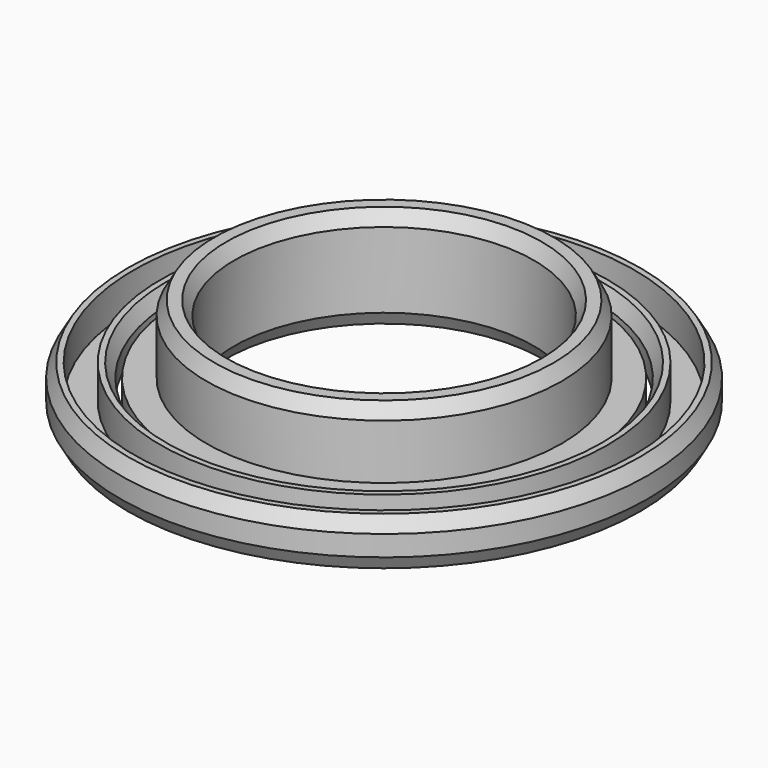
from build123d import *

# Parameters (mm, degrees)
F0_R       = 38.481
F0_R_2     = 36.481
F0_R_3     = 32.607
F0_R_4     = 30.607
F1_DEPTH   = 2
F2_DEPTH   = 7
F3_R       = 29.845
F3_R_2     = 25.908
F3_R_3     = 21.844
F4_DEPTH   = 5
F5_DEPTH   = 15
F6_SIZE2   = 1.1547005384
F6_SIZE    = 2
F6_2_SIZE2 = 1.1547005384
F6_2_SIZE  = 2
F7_SIZE2   = 1.1547005384
F7_SIZE    = 2
F8_SIZE2   = 1.1547005384
F8_SIZE    = 2
F9_SIZE2   = 1.1547005384
F9_SIZE    = 2


with BuildPart() as f1:
    # F0 (on Top) → F1 (new body)
    with BuildSketch(Plane.XY):
        Circle(F0_R)
        Circle(F0_R_2, mode=Mode.SUBTRACT)
        Circle(F0_R_2)
        Circle(F0_R_3, mode=Mode.SUBTRACT)
        Circle(F0_R_3)
        Circle(F0_R_4, mode=Mode.SUBTRACT)
    extrude(amount=F1_DEPTH)

    # F0 (on Top) → F2 (join)
    with BuildSketch(Plane.XY):
        Circle(F0_R)
        Circle(F0_R_2, mode=Mode.SUBTRACT)
        Circle(F0_R_3)
        Circle(F0_R_4, mode=Mode.SUBTRACT)
    extrude(amount=F2_DEPTH)

    # F8
    f8_edges = [f1.edges().sort_by_distance(p)[0] for p in [
        (-38.481, 0, 7),
        (-38.481, 0, 0),
    ]]
    f8_side = f1.faces().sort_by_distance((-38.481, 0, 3.5))[0]
    chamfer(f8_edges, length=F8_SIZE, length2=F8_SIZE2, reference=f8_side)

    # F9
    f9_edges = [f1.edges().sort_by_distance(p)[0] for p in [
        (-30.607, 0, 7),
        (-30.607, 0, 0),
    ]]
    f9_side = f1.faces().sort_by_distance((-30.607, 0, 3.5))[0]
    chamfer(f9_edges, length=F9_SIZE, length2=F9_SIZE2, reference=f9_side)


with BuildPart() as f4:
    # F3 (on Top) → F4 (new body)
    with BuildSketch(Plane.XY):
        Circle(F3_R)
        Circle(F3_R_2, mode=Mode.SUBTRACT)
        Circle(F3_R_2)
        Circle(F3_R_3, mode=Mode.SUBTRACT)
    extrude(amount=F4_DEPTH)

    # F3 (on Top) → F5 (join)
    with BuildSketch(Plane.XY):
        Circle(F3_R_2)
        Circle(F3_R_3, mode=Mode.SUBTRACT)
    extrude(amount=F5_DEPTH)

    # F6
    f6_edges = [f4.edges().sort_by_distance(p)[0] for p in [
        (-25.908, 0, 15),
    ]]
    f6_side = f4.faces().sort_by_distance((-25.908, 0, 10))[0]
    chamfer(f6_edges, length=F6_SIZE, length2=F6_SIZE2, reference=f6_side)

    # F6#2
    f6_2_edges = [f4.edges().sort_by_distance(p)[0] for p in [
        (-21.844, 0, 15),
        (-21.844, 0, 0),
    ]]
    f6_2_side = f4.faces().sort_by_distance((-21.844, 0, 7.5))[0]
    chamfer(f6_2_edges, length=F6_2_SIZE, length2=F6_2_SIZE2, reference=f6_2_side)

    # F7
    f7_edges = [f4.edges().sort_by_distance(p)[0] for p in [
        (-29.845, 0, 0),
    ]]
    f7_side = f4.faces().sort_by_distance((-29.845, 0, 2.5))[0]
    chamfer(f7_edges, length=F7_SIZE, length2=F7_SIZE2, reference=f7_side)


solid = Compound([f1.part, f4.part])
